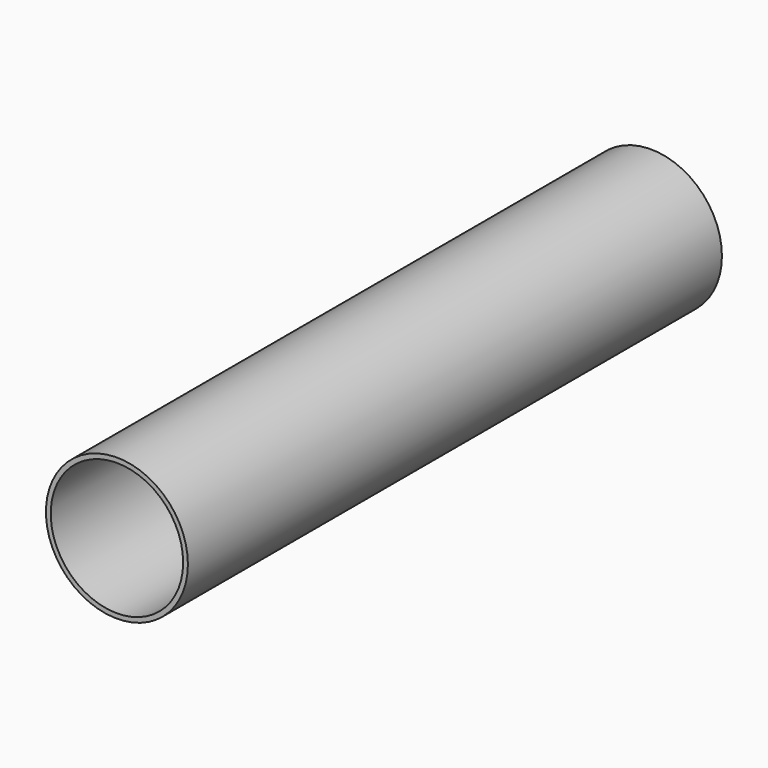
from build123d import *

# Parameters (mm, degrees)
F0_R     = 74.429541
F0_R_2   = 69.429539
F1_DEPTH = 700


with BuildPart() as f1:
    # F0 (on Front) → F1 (new body)
    with BuildSketch(Plane.XZ):
        Circle(F0_R)
        Circle(F0_R_2, mode=Mode.SUBTRACT)
    extrude(amount=-F1_DEPTH)


with BuildPart() as f1_1:
    # F2: moved
    add(f1.part.moved(Location((0, -413, 0))))


solid = f1_1.part
